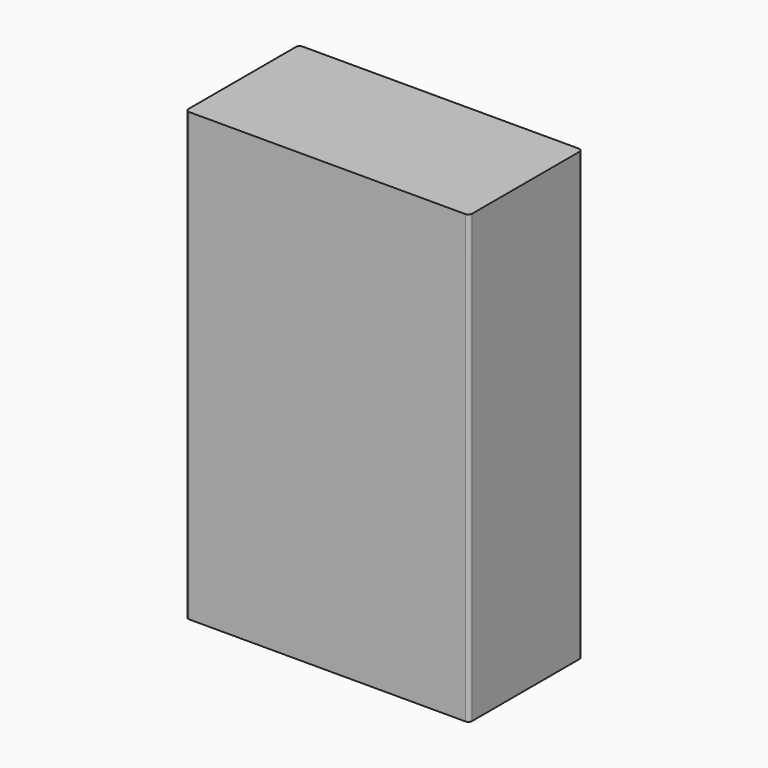
from build123d import *

# Parameters (mm, degrees)
PAD_DEPTH = 30


with BuildPart() as part:
    # Sketch → Pad (new body, symmetric)
    with BuildSketch(Plane.XY):
        with BuildLine():
            Line((-19.05, 9.025), (-19.05, -9.025))
            ThreePointArc((-19.05, -9.025), (-18.903553, -9.378553), (-18.55, -9.525))
            Line((-18.55, -9.525), (18.55, -9.525))
            ThreePointArc((18.55, -9.525), (18.903553, -9.378553), (19.05, -9.025))
            Line((19.05, -9.025), (19.05, 9.025))
            ThreePointArc((19.05, 9.025), (18.903553, 9.378553), (18.55, 9.525))
            Line((18.55, 9.525), (-18.55, 9.525))
            ThreePointArc((-18.55, 9.525), (-18.903553, 9.378553), (-19.05, 9.025))
        make_face()
    extrude(amount=PAD_DEPTH, both=True)


solid = part.part
